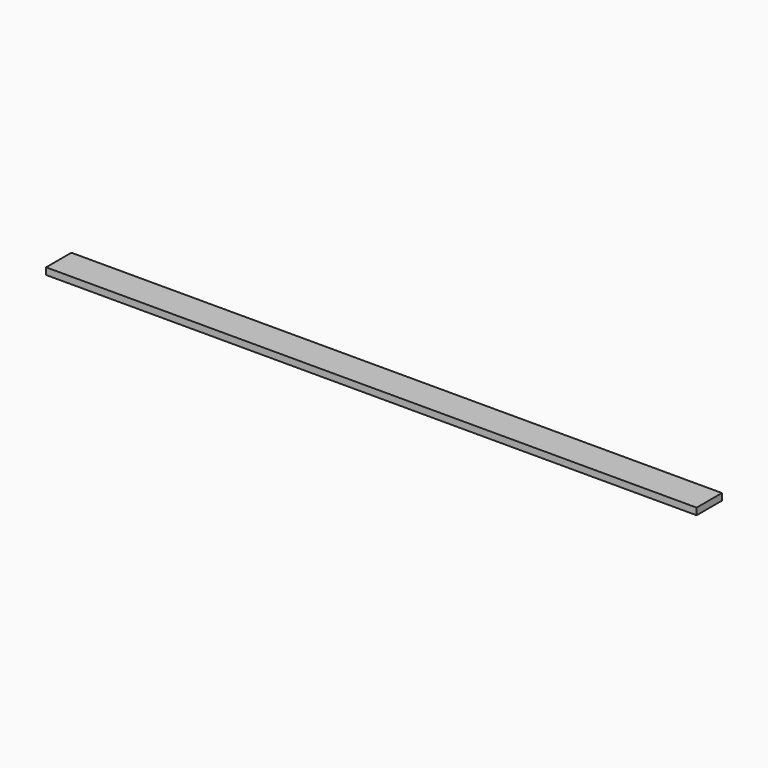
from build123d import *

# Parameters (mm, degrees)
SKETCH_W  = 1828.8
SKETCH_H  = 88.9
PAD_DEPTH = 19.05


with BuildPart() as part:
    # Sketch → Pad (new body)
    with BuildSketch(Plane.XY):
        Rectangle(SKETCH_W, SKETCH_H)
    extrude(amount=PAD_DEPTH)


solid = part.part
